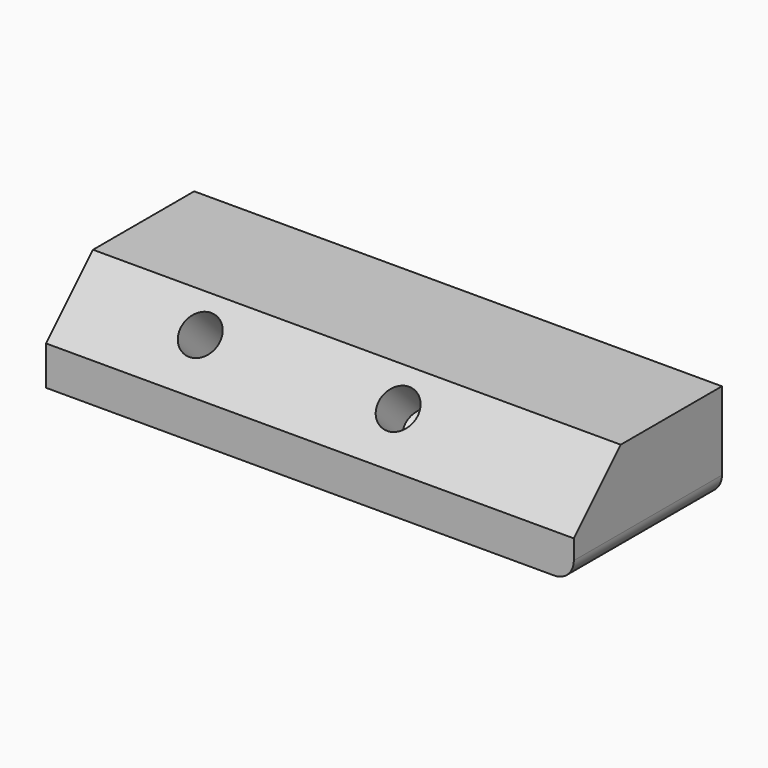
from build123d import *

# Parameters (mm, degrees)
F0_W     = 134.9869966507
F0_H     = 47.353733331
F1_DEPTH = 25
F2_SIZE  = 15
F5_D     = 10
F6_D     = 10
F6_DEPTH = 12
F6_TIP   = 3.0043030951
F7_R     = 5


with BuildPart() as f1:
    # F0 (on Top) → F1 (new body)
    with BuildSketch(Plane.XY):
        with Locations((-67.4934983253, -23.6768666655)):
            Rectangle(F0_W, F0_H)
    extrude(amount=F1_DEPTH)

    # F2
    f2_edges = [f1.edges().sort_by_distance(p)[0] for p in [
        (-67.493498, -47.353733, 25),
    ]]
    chamfer(f2_edges, length=F2_SIZE)

    # F5 (through all)
    with Locations(Plane(origin=(0, -28.6768666655, 28.6768666655), x_dir=(1, 0, 0), z_dir=(0, -0.7071067812, 0.7071067812))):
        with Locations((-102.6275157928, -13.9099992812)):
            Hole(F5_D / 2)

    # F6
    with Locations(Plane(origin=(0, -28.6768666655, 28.6768666655), x_dir=(1, 0, 0), z_dir=(0, -0.7071067812, 0.7071067812))):
        with Locations((-51.9247092307, -14.0617964789)):
            Hole(F6_D / 2, depth=F6_DEPTH)
            with Locations((0, 0, -(F6_DEPTH + F6_TIP / 2))):  # 118° drill point
                Cone(0, F6_D / 2, F6_TIP, mode=Mode.SUBTRACT)

    # F7
    f7_edges = [f1.edges().sort_by_distance(p)[0] for p in [
        (0, -23.676867, 0),
    ]]
    fillet(f7_edges, radius=F7_R)


solid = f1.part
